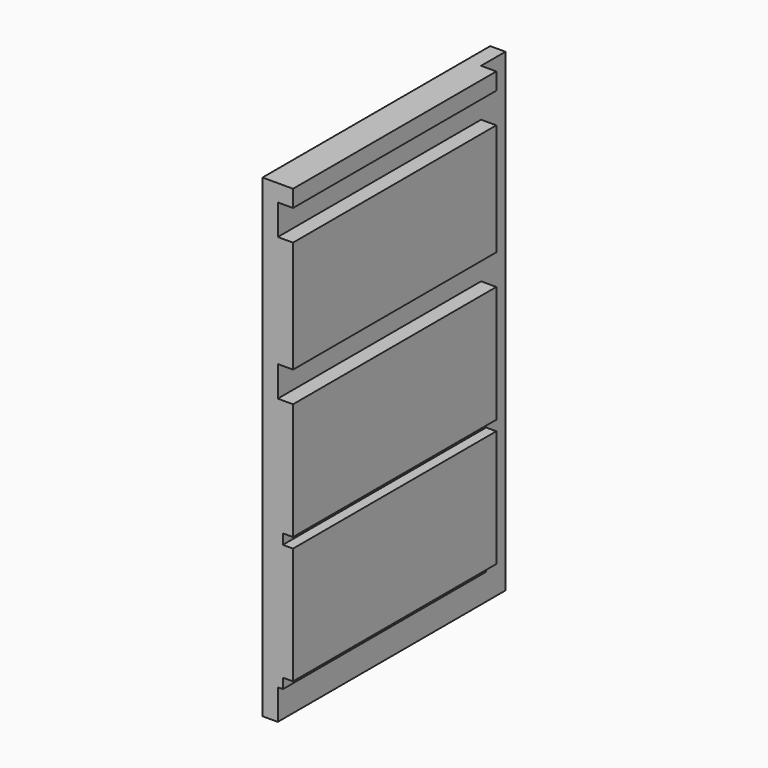
from build123d import *

# Parameters (mm, degrees)
SKETCH_W        = 168
SKETCH_H        = 280
PAD_DEPTH       = 18
SKETCH001_W     = 168
SKETCH001_H     = 18
POCKET_DEPTH    = 9
SKETCH002_W     = 18
SKETCH002_H     = 280
POCKET001_DEPTH = 9
SKETCH003_W     = 168
SKETCH003_H     = 6
POCKET002_DEPTH = 6


with BuildPart() as part:
    # Sketch → Pad (new body)
    with BuildSketch(Plane.YZ):
        with Locations((-84, 140)):
            Rectangle(SKETCH_W, SKETCH_H)
    extrude(amount=PAD_DEPTH)

    # Sketch001 (on Face6 of Pad) → Pocket (cut)
    with BuildSketch(Plane.YZ.offset(18)):
        with Locations((-84, 9)):
            Rectangle(SKETCH001_W, SKETCH001_H)
        with Locations((-84, 177)):
            Rectangle(SKETCH001_W, SKETCH001_H)
        with Locations((-84, 261)):
            Rectangle(SKETCH001_W, SKETCH001_H)
    extrude(amount=-POCKET_DEPTH, mode=Mode.SUBTRACT)

    # Sketch002 (on Face35 of Pocket) → Pocket001 (cut)
    with BuildSketch(Plane.YZ.offset(18)):
        with Locations((-9, 140)):
            Rectangle(SKETCH002_W, SKETCH002_H)
    extrude(amount=-POCKET001_DEPTH, mode=Mode.SUBTRACT)

    # Sketch003 (on Face12 of Pocket001) → Pocket002 (cut)
    with BuildSketch(Plane.YZ.offset(18)):
        with Locations((-84, 21)):
            Rectangle(SKETCH003_W, SKETCH003_H)
        with Locations((-84, 96)):
            Rectangle(SKETCH003_W, SKETCH003_H)
    extrude(amount=-POCKET002_DEPTH, mode=Mode.SUBTRACT)


solid = part.part
